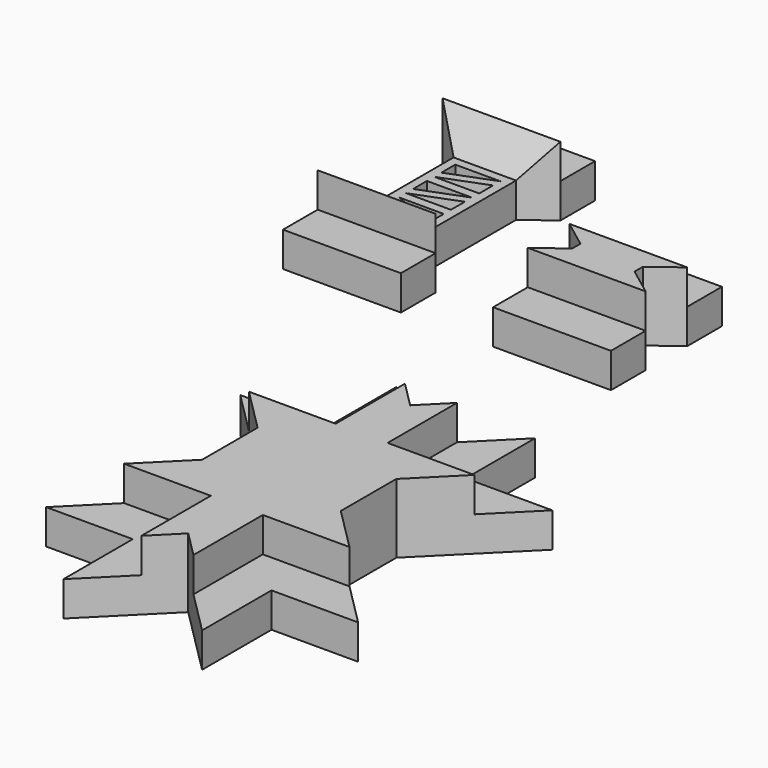
from build123d import *

# Parameters (mm, degrees)
PAD_DEPTH       = 20
POCKET_DEPTH    = 10
POCKET001_DEPTH = 10
POCKET005_DEPTH = 40
POCKET006_DEPTH = 10.001
PAD001_DEPTH    = 20
SKETCH010_W     = 34
SKETCH010_H     = 12.5
SKETCH010_W_2   = 34.000042
POCKET007_DEPTH = 10
PAD002_DEPTH    = 20
POCKET003_DEPTH = 10
POCKET004_DEPTH = 10


with BuildPart() as body:
    # Sketch → Pad (new body)
    with BuildSketch(Plane.XY):
        Polygon((-33.999986, 70), (1.4e-05, 70), (1.4e-05, 57.5), (-7.999979, 51.499991), (-7.999979, 18.499972), (4.2e-05, 12.5), (0, 0), (-34, 0), (-34, 12.5), (-25.999979, 18.499972), (-25.999979, 51.499991), (-33.999972, 57.5), align=None)
    extrude(amount=PAD_DEPTH)

    # Sketch003 (on Face14 of Pad) → Pocket (cut)
    with BuildSketch(Plane.XY.offset(20)):
        Polygon((-34, 12.5), (4.2e-05, 12.5), (0, 0), (-34, 0), align=None)
    extrude(amount=-POCKET_DEPTH, mode=Mode.SUBTRACT)

    # Sketch004 (on Face5 of Pocket) → Pocket001 (cut)
    with BuildSketch(Plane.XY.offset(20)):
        Polygon((-33.999972, 57.5), (1.4e-05, 57.5), (1.4e-05, 70), (-33.999986, 70), align=None)
    extrude(amount=-POCKET001_DEPTH, mode=Mode.SUBTRACT)

    # Sketch008 (on Face8 of Pocket001) → Pocket005 (cut)
    with BuildSketch(Plane.YZ.offset(2.000021)):
        Polygon((12.5, 20), (18.5, 10), (51.5, 10), (57.5, 20), align=None)
    extrude(amount=-POCKET005_DEPTH, mode=Mode.SUBTRACT)

    # Sketch009 (on Face16 of Pocket005) → Pocket006 (cut, through all)
    with BuildSketch(Plane.XY.offset(10)):
        Polygon((-23.523946, 26), (-23.523946, 21), (-10.523946, 21), align=None)
        Polygon((-23.523946, 28.6), (-10.523946, 23.6), (-10.523946, 28.6), align=None)
        Polygon((-23.523946, 49), (-10.523946, 49), (-23.523946, 44), align=None)
        Polygon((-23.523946, 41.4), (-10.523946, 46.4), (-10.523946, 41.4), align=None)
        Polygon((-23.523946, 38.8), (-23.523946, 33.8), (-10.523946, 38.8), align=None)
        Polygon((-23.523946, 31.2), (-10.523946, 36.2), (-10.523946, 31.2), align=None)
    extrude(amount=-POCKET006_DEPTH, mode=Mode.SUBTRACT)


with BuildPart() as i2_4cm:
    # Sketch001 → Pad001 (new body)
    with BuildSketch(Plane.XY):
        Polygon((-33.999986, 40), (1.4e-05, 40), (1.4e-05, 27.5), (-7.999979, 21.499991), (-7.999979, 18.499972), (4.2e-05, 12.5), (0, 0), (-34, 0), (-34, 12.5), (-25.999979, 18.499972), (-25.999979, 21.499991), (-33.999972, 27.5), align=None)
    extrude(amount=PAD001_DEPTH)

    # Sketch010 (on Face14 of Pad001) → Pocket007 (cut)
    with BuildSketch(Plane.XY.offset(20)):
        with Locations((-16.999986, 33.75)):
            Rectangle(SKETCH010_W, SKETCH010_H)
        with Locations((-16.999979, 6.25)):
            Rectangle(SKETCH010_W_2, SKETCH010_H)
    extrude(amount=-POCKET007_DEPTH, mode=Mode.SUBTRACT)


with BuildPart() as i2_4cm_1:
    # Body001 placement: moved
    add(i2_4cm.part.moved(Location((60.5835, 0, 0))))


with BuildPart() as star:
    # Sketch002 → Pad002 (new body)
    with BuildSketch(Plane.XY):
        Polygon((33.87, -44), (53.87, -64), (73.87, -44), (73.87, -69), (98.87, -69), (73.87, -94), (73.87, -114), (98.87, -139), (73.87, -139), (73.87, -164), (53.87, -144), (33.87, -164), (33.87, -139), (8.87, -139), (33.87, -114), (33.87, -94), (8.87, -69), (33.87, -69), align=None)
    extrude(amount=PAD002_DEPTH)

    # Sketch006 (on Face20 of Pad002) → Pocket003 (cut)
    with BuildSketch(Plane.XY.offset(20)):
        Polygon((21.37, -126.5), (46.37, -126.5), (46.37, -151.5), (33.87, -164), (33.87, -139), (8.87, -139), align=None)
        Polygon((21.37, -81.5), (46.37, -81.5), (46.37, -56.5), (33.87, -44), (33.87, -69), (8.87, -69), align=None)
        Polygon((73.87, -44), (61.37, -56.5), (61.37, -81.5), (86.37, -81.5), (98.87, -69), (73.87, -69), align=None)
    extrude(amount=-POCKET003_DEPTH, mode=Mode.SUBTRACT)

    # Sketch007 (on Face23 of Pocket003) → Pocket004 (cut)
    with BuildSketch(Plane.XY.offset(20)):
        Polygon((61.37, -151.5), (61.37, -126.5), (86.37, -126.5), (98.87, -139), (73.87, -139), (73.87, -164), align=None)
    extrude(amount=-POCKET004_DEPTH, mode=Mode.SUBTRACT)


solid = Compound([body.part, i2_4cm_1.part, star.part])
